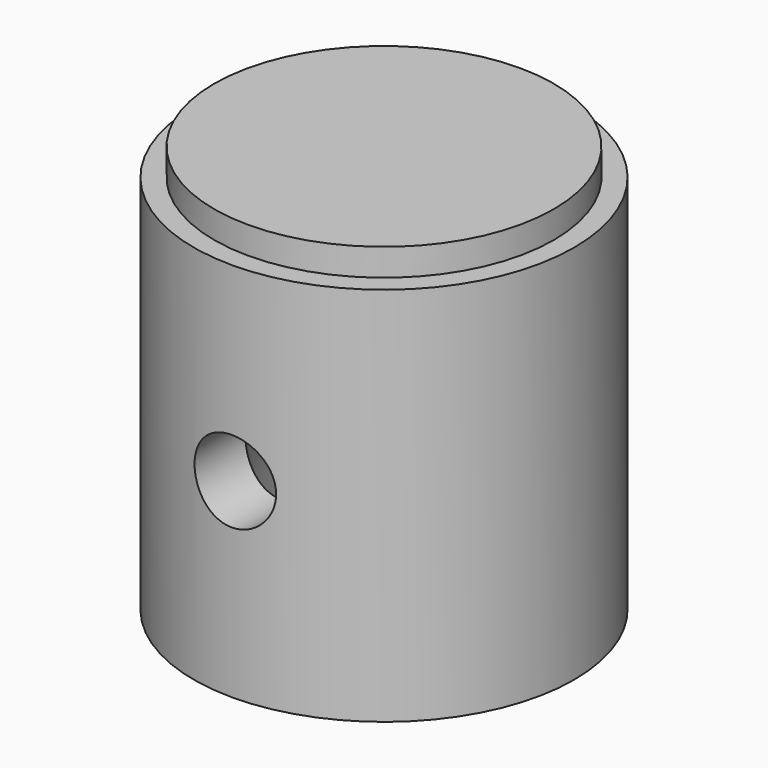
from build123d import *

# Parameters (mm, degrees)
F0_R     = 6.25
F1_DEPTH = 1
F2_R     = 7
F3_DEPTH = 14
F6_R     = 1.5
F7_DEPTH = 12.5


with BuildPart() as f1:
    # F0 (on Top) → F1 (new body)
    with BuildSketch(Plane.XY):
        Circle(F0_R)
    extrude(amount=-F1_DEPTH)

    # F2 (on face) → F3 (join)
    with BuildSketch(Plane(origin=(0, 0, -1), x_dir=(1, 0, 0), z_dir=(0, 0, -1))):
        Circle(F2_R)
    extrude(amount=F3_DEPTH)

    # F4 (on Right) → F5 (revolve, cut)
    with BuildSketch(Plane.YZ):
        Polygon((0, -15), (0, -1.0399731109), (-4.75, -4), (-4.75, -11.0161577418), (-6.2, -15), align=None)
    revolve(axis=Axis((0, 0, -15), (0, 0, -1)), mode=Mode.SUBTRACT)

    # F6 (on Front) → F7 (cut, symmetric)
    with BuildSketch(Plane.XZ):
        with Locations((0, -8)):
            Circle(F6_R)
    extrude(amount=F7_DEPTH, both=True, mode=Mode.SUBTRACT)


solid = f1.part
